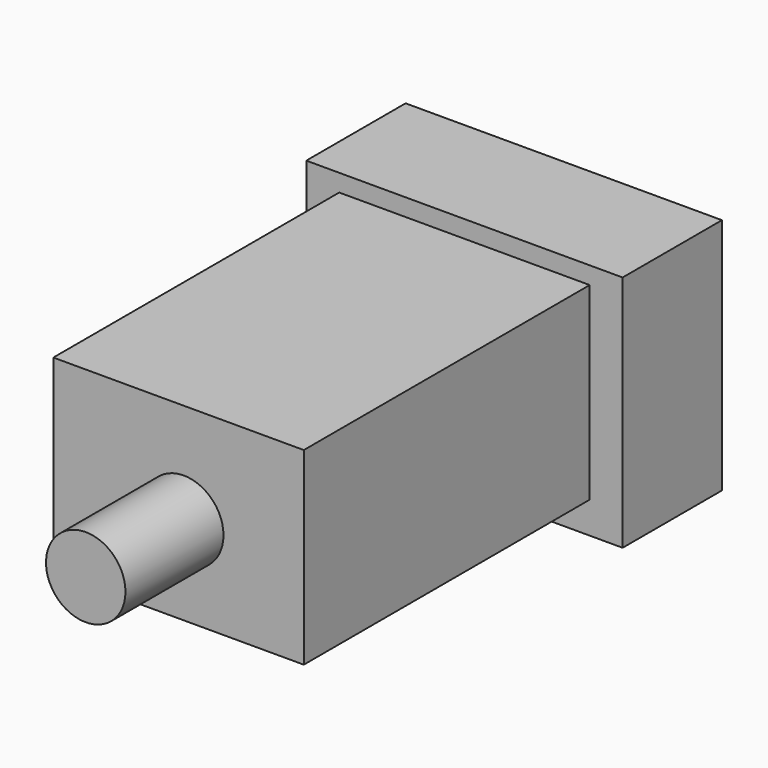
from build123d import *

# Parameters (mm, degrees)
F0_W     = 101.638708
F0_H     = 76.456577
F1_DEPTH = 39.878
F2_W     = 80.470148
F2_H     = 60.710575
F3_DEPTH = 114.808
F4_R     = 12.763073
F5_DEPTH = 39.37
F6_W     = 52.336872
F6_H     = 92.136786
F7_DEPTH = 27.94


with BuildPart() as f1:
    # F0 (on Front) → F1 (new body)
    with BuildSketch(Plane.XZ):
        with Locations((-1.668697, -0.151697)):
            Rectangle(F0_W, F0_H)
    extrude(amount=F1_DEPTH)

    # F2 (on face) → F3 (join)
    with BuildSketch(Plane.XZ.offset(39.878)):
        with Locations((-1.668697, 2.139264)):
            Rectangle(F2_W, F2_H)
    extrude(amount=F3_DEPTH)

    # F4 (on face) → F5 (join)
    with BuildSketch(Plane.XZ.offset(154.686)):
        Circle(F4_R)
    extrude(amount=F5_DEPTH)

    # F6 (on face) → F7 (join)
    with BuildSketch(Plane.XY.offset(32.494552)):
        with Locations((-0.389457, -95.996715)):
            Rectangle(F6_W, F6_H)
    extrude(amount=-F7_DEPTH)


solid = f1.part
